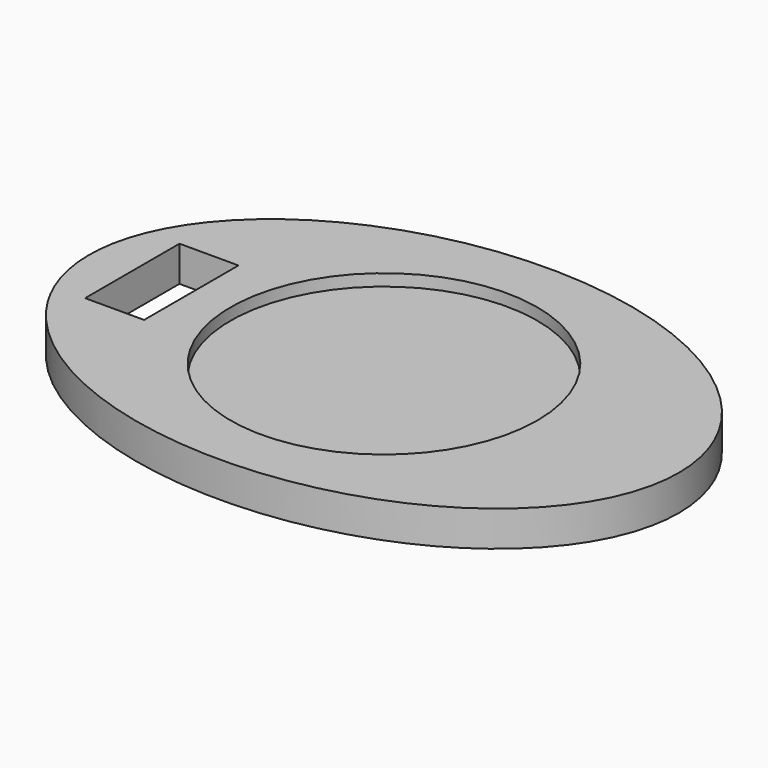
from build123d import *

# Parameters (mm, degrees)
F0_R     = 13
F1_DEPTH = 2
F0_W     = 5
F0_H     = 10
F2_DEPTH = 3


with BuildPart() as f1:
    # F0 (on Top) → F1 (new body)
    with BuildSketch(Plane.XY):
        Circle(F0_R)
    extrude(amount=F1_DEPTH)

    # F0 (on Top) → F2 (join)
    with BuildSketch(Plane.XY):
        with BuildLine():
            add(Edge.make_bspline(
                [(25, 0), (25, 30.310889), (-12.5, 15.155445), (-50, 0), (-12.5, -15.155445), (25, -30.310889), (25, 0)],
                knots=[0, 0, 0, 2.094395, 2.094395, 4.18879, 4.18879, 6.283185, 6.283185, 6.283185], degree=2, weights=[1, 0.5, 1, 0.5, 1, 0.5, 1]))
        make_face()
        with Locations((-18.831329, 0)):
            Rectangle(F0_W, F0_H, mode=Mode.SUBTRACT)
        Circle(F0_R, mode=Mode.SUBTRACT)
    extrude(amount=F2_DEPTH)


solid = f1.part
